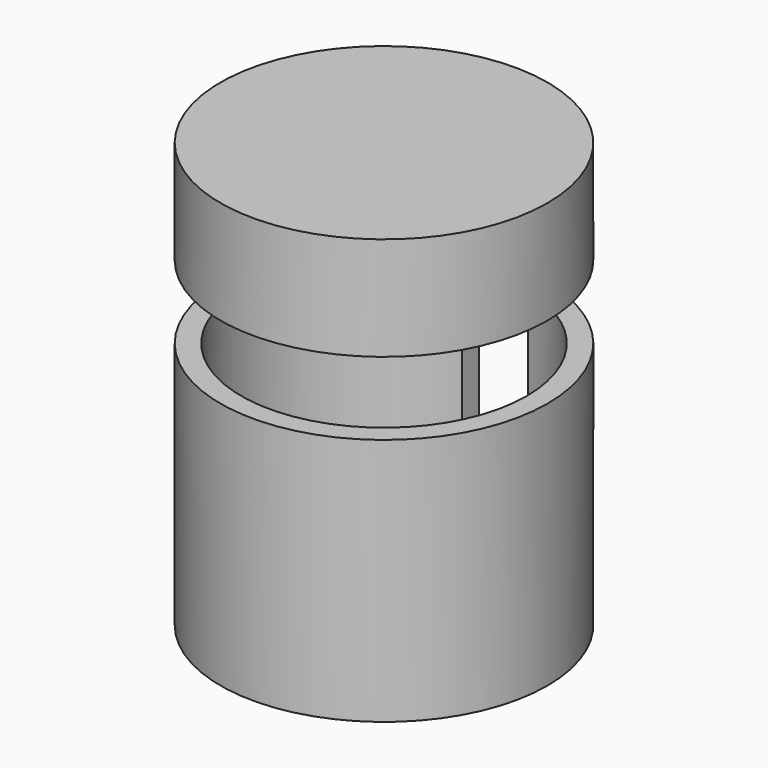
from build123d import *

# Parameters (mm, degrees)
F3_DEPTH = 99.06
F7_DEPTH = 94.996


with BuildPart() as f1:
    # F0 (on Front) → F1 (revolve)
    with BuildSketch(Plane.XZ):
        Polygon((0, 6.35), (0, 0), (50.165, 0), (50.165, 76.2), (43.815, 76.2), (43.815, 6.35), align=None)
    revolve(axis=Axis((0, 0, 3.175), (0, 0, -1)))

    # F2 (on Front) → F3 (cut)
    with BuildSketch(Plane.XZ):
        Polygon((-10.16, 8.89), (0, 8.89), (10.16, 8.89), (10.16, 76.2), (-10.16, 76.2), align=None)
    extrude(amount=-F3_DEPTH, mode=Mode.SUBTRACT)


with BuildPart() as f5:
    # F4 (on Front) → F5 (revolve)
    with BuildSketch(Plane.XZ):
        Polygon((50.165, 130.388408), (0, 130.388408), (0, 124.038408), (43.815, 124.038408), (43.815, 98.638408), (50.165, 98.638408), align=None)
    revolve(axis=Axis((0, 0, 127.213408), (0, 0, 1)))

    # F6 (on Front) → F7 (cut)
    with BuildSketch(Plane.XZ):
        Polygon((-10.16, 78.74), (0, 78.74), (10.16, 78.74), (10.16, 116.84), (-10.16, 116.84), align=None)
    extrude(amount=-F7_DEPTH, mode=Mode.SUBTRACT)


solid = Compound([f1.part, f5.part])
